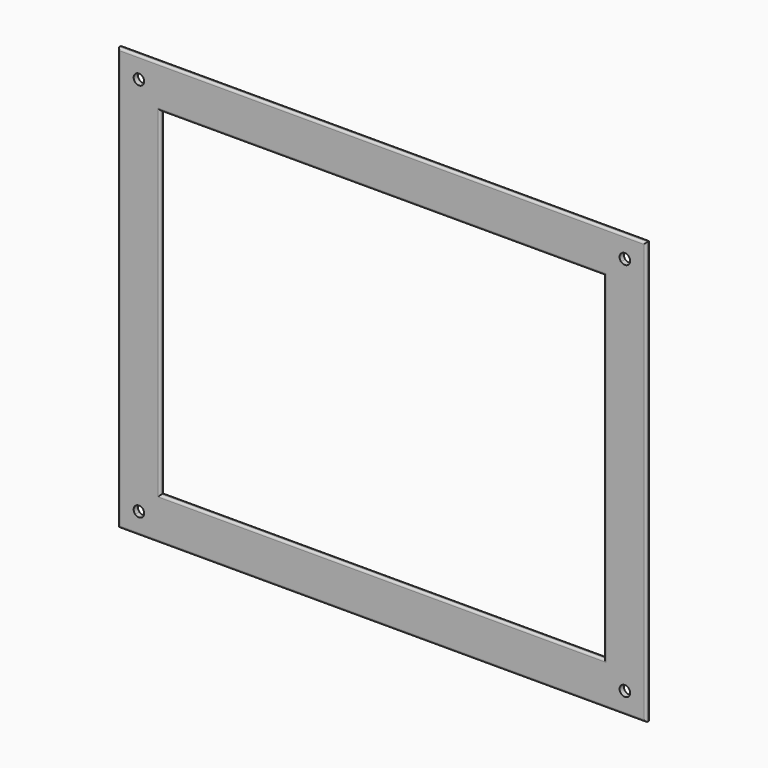
from build123d import *

# Parameters (mm, degrees)
F0_W     = 250
F0_H     = 200
F0_W_2   = 210
F0_H_2   = 160
F1_DEPTH = 1.25
F2_R     = 1


with BuildPart() as f1:
    # F0 (on Front) → F1 (new body, symmetric)
    with BuildSketch(Plane.XZ):
        Rectangle(F0_W, F0_H)
        with BuildLine():
            ThreePointArc((-113.232233, -88.232233), (-112.690301, -89.043291), (-112.5, -90))
            ThreePointArc((-112.5, -90), (-114.043291, -92.309699), (-116.767767, -91.767767))
            ThreePointArc((-116.767767, -91.767767), (-116.767767, -88.232233), (-113.232233, -88.232233))
        make_face(mode=Mode.SUBTRACT)
        with BuildLine():
            ThreePointArc((113.232233, -88.232233), (115.956709, -87.690301), (117.5, -90))
            ThreePointArc((117.5, -90), (117.309699, -90.956709), (116.767767, -91.767767))
            ThreePointArc((116.767767, -91.767767), (113.232233, -91.767767), (113.232233, -88.232233))
        make_face(mode=Mode.SUBTRACT)
        with BuildLine():
            ThreePointArc((-116.767767, 91.767767), (-114.043291, 92.309699), (-112.5, 90))
            ThreePointArc((-112.5, 90), (-112.690301, 89.043291), (-113.232233, 88.232233))
            ThreePointArc((-113.232233, 88.232233), (-116.767767, 88.232233), (-116.767767, 91.767767))
        make_face(mode=Mode.SUBTRACT)
        Rectangle(F0_W_2, F0_H_2, mode=Mode.SUBTRACT)
        with BuildLine():
            ThreePointArc((116.767767, 91.767767), (117.309699, 90.956709), (117.5, 90))
            ThreePointArc((117.5, 90), (115.956709, 87.690301), (113.232233, 88.232233))
            ThreePointArc((113.232233, 88.232233), (113.232233, 91.767767), (116.767767, 91.767767))
        make_face(mode=Mode.SUBTRACT)
    extrude(amount=F1_DEPTH, both=True)

    # F2
    f2_edges = [f1.edges().sort_by_distance(p)[0] for p in [
        (0, 1.25, -100),
        (0, -1.25, -100),
        (-125, -1.25, 0),
        (-125, 1.25, 0),
        (0, 1.25, 100),
        (0, -1.25, 100),
        (125, -1.25, 0),
        (125, 1.25, 0),
        (0, -1.25, -80),
        (0, 1.25, -80),
        (-105, 1.25, 0),
        (-105, -1.25, 0),
        (0, -1.25, 80),
        (0, 1.25, 80),
        (105, 1.25, 0),
        (105, -1.25, 0),
    ]]
    fillet(f2_edges, radius=F2_R)


solid = f1.part
